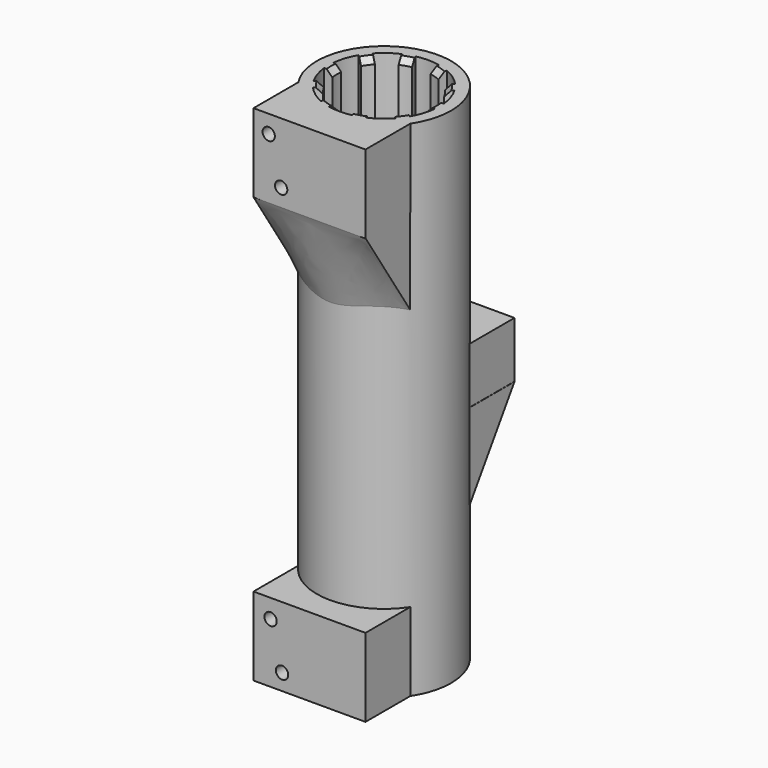
from build123d import *

# Parameters (mm, degrees)
CYLINDER_R     = 8.5
CYLINDER_DEPTH = 90
BOX_W          = 20
BOX_H          = 2
BOX_DEPTH      = 90
CHAMFER_SIZE   = 1
ARRAY_COUNT    = 5
SKETCH_R       = 12
SKETCH_R_2     = 9.92732
PAD_DEPTH      = 90
PAD001_DEPTH   = 14
PAD002_DEPTH   = 14
SKETCH005_R    = 1.1
HOLE_DEPTH     = 6
HOLE_TIPS_R    = 1.1
SKETCH006_R    = 1.1
HOLE001_DEPTH  = 7
HOLE001_TIPS_R = 1.1
PAD005_DEPTH   = 10
SKETCH034_R    = 1.1
HOLE002_DEPTH  = 7
HOLE002_TIPS_R = 1.1


with BuildPart() as cylinder:
    # Cylinder → Cylinder (new body)
    with BuildSketch(Plane.XY):
        Circle(CYLINDER_R)
    extrude(amount=CYLINDER_DEPTH)


with BuildPart() as main_circuit:
    # Box → Box (new body)
    with BuildSketch(Plane(origin=(-10, -1, 0), x_dir=(1, 0, 0), z_dir=(0, 0, 1))):
        with Locations((10, 1)):
            Rectangle(BOX_W, BOX_H)
    extrude(amount=BOX_DEPTH)

    # Cut: cut Cylinder
    add(cylinder.part, mode=Mode.SUBTRACT)

    # Chamfer
    chamfer_edges = [main_circuit.edges().sort_by_distance(p)[0] for p in [
        (-8.5, 0, 90),
        (-8.5, 0, 0),
        (8.48523, -0.50087, 0),
        (8.48523, 0.50087, 0),
        (8.48523, -0.50087, 90),
        (8.48523, 0.50087, 90),
    ]]
    chamfer(chamfer_edges, length=CHAMFER_SIZE)

    # Array: main_circuit ×5 about axis
    array_axis = Axis((0, 0, 0), (0, 0, 1))


with BuildPart() as main_circuit_1:
    add(main_circuit.part)
    for i in range(1, ARRAY_COUNT):
        add(main_circuit.part.rotate(array_axis, i * 360 / ARRAY_COUNT))

    # Sketch (on Face14 of Chamfer) → Pad (new body)
    with BuildSketch(Plane.XY.offset(90)):
        Circle(SKETCH_R)
        Circle(SKETCH_R_2, mode=Mode.SUBTRACT)
    extrude(amount=-PAD_DEPTH)

    # Sketch001 (on Face2 of Pad) → Pad001 (join)
    with BuildSketch(Plane.XY.offset(90)):
        with BuildLine():
            ThreePointArc((-10, -6.63325), (0, -12), (10, -6.63325))
            Line((10, -16.63325), (10, -6.63325))
            Line((-10, -16.63325), (10, -16.63325))
            Line((-10, -16.63325), (-10, -6.63325))
        make_face()
    extrude(amount=-PAD001_DEPTH)

    # Sketch003 (on Face2 of Pad) → Pad002 (join)
    with BuildSketch(Plane.XY):
        with BuildLine():
            ThreePointArc((-10, -6.63325), (0, -12), (10, -6.63325))
            Line((10, -16.63325), (10, -6.63325))
            Line((-10, -16.63325), (10, -16.63325))
            Line((-10, -16.63325), (-10, -6.63325))
        make_face()
    extrude(amount=PAD002_DEPTH)

    # Sketch005 → Hole (cut)
    with BuildSketch(Plane.XZ.offset(16.63325)):
        with Locations((-7.279865, 86.818527)):
            Circle(SKETCH005_R)
        with Locations((-5.058943, 79.102539)):
            Circle(SKETCH005_R)
    extrude(amount=-HOLE_DEPTH, mode=Mode.SUBTRACT)

    # Hole tips → Hole tip 1 section 0
    with BuildSketch(Plane.XZ.offset(10.63325), mode=Mode.PRIVATE) as hole_tip_1_s0:
        with Locations((-7.279865, 86.818527)):
            Circle(HOLE_TIPS_R)
    loft([hole_tip_1_s0.sketch, Vertex(-7.279865, -9.972303, 86.818527)], mode=Mode.SUBTRACT)

    # Hole tips → Hole tip 2 section 0
    with BuildSketch(Plane.XZ.offset(10.63325), mode=Mode.PRIVATE) as hole_tip_2_s0:
        with Locations((-5.058943, 79.102539)):
            Circle(HOLE_TIPS_R)
    loft([hole_tip_2_s0.sketch, Vertex(-5.058943, -9.972303, 79.102539)], mode=Mode.SUBTRACT)

    # Sketch006 (on Face31 of Hole) → Hole001 (cut)
    with BuildSketch(Plane.XZ.offset(16.63325)):
        with Locations((-6.949521, 10.656509)):
            Circle(SKETCH006_R)
        with Locations((-4.900103, 2.902877)):
            Circle(SKETCH006_R)
    extrude(amount=-HOLE001_DEPTH, mode=Mode.SUBTRACT)

    # Hole001 tips → Hole001 tip 1 section 0
    with BuildSketch(Plane.XZ.offset(9.63325), mode=Mode.PRIVATE) as hole001_tip_1_s0:
        with Locations((-6.949521, 10.656509)):
            Circle(HOLE001_TIPS_R)
    loft([hole001_tip_1_s0.sketch, Vertex(-6.949521, -8.972303, 10.656509)], mode=Mode.SUBTRACT)

    # Hole001 tips → Hole001 tip 2 section 0
    with BuildSketch(Plane.XZ.offset(9.63325), mode=Mode.PRIVATE) as hole001_tip_2_s0:
        with Locations((-4.900103, 2.902877)):
            Circle(HOLE001_TIPS_R)
    loft([hole001_tip_2_s0.sketch, Vertex(-4.900103, -8.972303, 2.902877)], mode=Mode.SUBTRACT)

    # Sketch002 (on Face2 of Pad) → Pad005 (join)
    with BuildSketch(Plane(origin=(0, 0, 50), x_dir=(-1, 0, 0), z_dir=(0, 0, 1))):
        with BuildLine():
            ThreePointArc((-10, -6.63325), (0, -12), (10, -6.63325))
            Line((10, -16.63325), (10, -6.63325))
            Line((-10, -16.63325), (10, -16.63325))
            Line((-10, -16.63325), (-10, -6.63325))
        make_face()
    extrude(amount=-PAD005_DEPTH)

    # Sketch008 (on Face12 of Pad005) → AdditiveLoft section 0
    with BuildSketch(Plane(origin=(-10, 0, 0), x_dir=(0, -1, 0), z_dir=(-1, 0, 0))):
        Polygon((-16.636869, 39.970264), (-6.629684, 39.970264), (-6.629684, 24.694645), align=None)
    # Sketch009 (on Face12 of Pad005) → AdditiveLoft section 1
    with BuildSketch(Plane(origin=(0, 0, 0), x_dir=(0, -1, 0), z_dir=(-1, 0, 0))):
        Polygon((-16.637928, 39.961704), (-11.980004, 39.961704), (-11.980004, 24.806454), align=None)
    # Sketch010 (on Face12 of Pad005) → AdditiveLoft section 2
    with BuildSketch(Plane(origin=(10, 0, 0), x_dir=(0, -1, 0), z_dir=(-1, 0, 0))):
        Polygon((-16.634577, 39.974693), (-6.626975, 39.974693), (-6.626975, 24.656189), align=None)
    loft()

    # Sketch011 (on Face9 of AdditiveLoft) → AdditiveLoft001 section 0
    with BuildSketch(Plane.YZ.offset(10)):
        Polygon((-16.623207, 76.040215), (-6.641595, 76.040215), (-6.641595, 60.720215), align=None)
    # Sketch013 (on Face9 of AdditiveLoft) → AdditiveLoft001 section 1
    with BuildSketch(Plane.YZ):
        Polygon((-16.617746, 76.00518), (-11.950053, 76.00518), (-11.950053, 60.68518), align=None)
    # Sketch012 (on Face9 of AdditiveLoft) → AdditiveLoft001 section 2
    with BuildSketch(Plane.YZ.offset(-10)):
        Polygon((-16.629562, 76.014336), (-6.656822, 76.014336), (-6.656822, 60.706722), align=None)
    loft()

    # Sketch034 → Hole002 (cut)
    with BuildSketch(Plane(origin=(0, 16.63325, 0), x_dir=(-1, 0, 0), z_dir=(0, 1, 0))):
        with Locations((-6.56569, 47.399509)):
            Circle(SKETCH034_R)
        with Locations((-6.541382, 42.386913)):
            Circle(SKETCH034_R)
    extrude(amount=-HOLE002_DEPTH, mode=Mode.SUBTRACT)

    # Hole002 tips → Hole002 tip 1 section 0
    with BuildSketch(Plane(origin=(0, 9.63325, 0), x_dir=(-1, 0, 0), z_dir=(0, 1, 0)), mode=Mode.PRIVATE) as hole002_tip_1_s0:
        with Locations((-6.56569, 47.399509)):
            Circle(HOLE002_TIPS_R)
    loft([hole002_tip_1_s0.sketch, Vertex(6.56569, 8.972303, 47.399509)], mode=Mode.SUBTRACT)

    # Hole002 tips → Hole002 tip 2 section 0
    with BuildSketch(Plane(origin=(0, 9.63325, 0), x_dir=(-1, 0, 0), z_dir=(0, 1, 0)), mode=Mode.PRIVATE) as hole002_tip_2_s0:
        with Locations((-6.541382, 42.386913)):
            Circle(HOLE002_TIPS_R)
    loft([hole002_tip_2_s0.sketch, Vertex(6.541382, 8.972303, 42.386913)], mode=Mode.SUBTRACT)


solid = main_circuit_1.part
